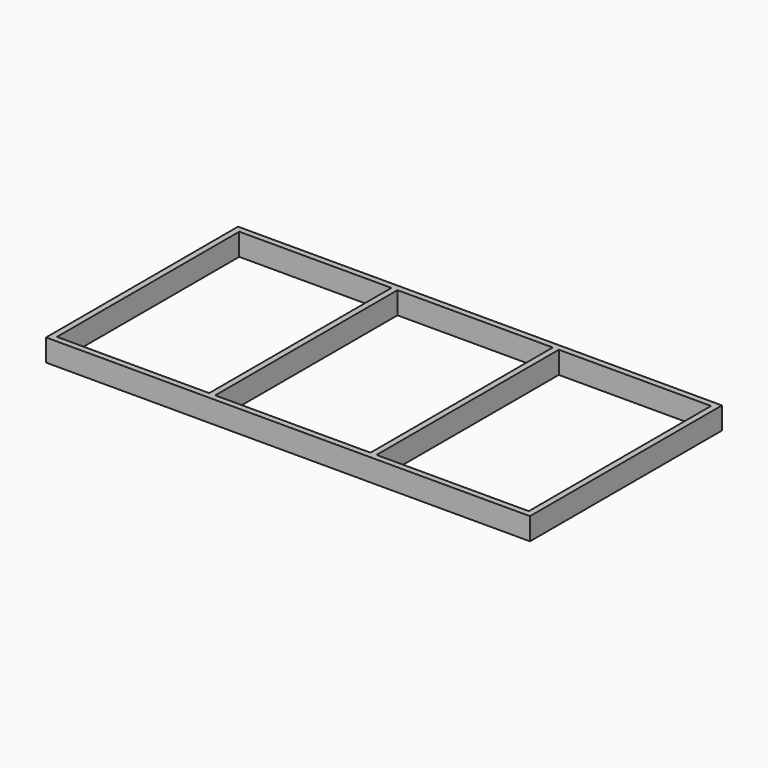
from build123d import *

# Parameters (mm, degrees)
F0_W     = 38.1
F0_H     = 1435.1
F1_DEPTH = 69.85


with BuildPart() as f1:
    # F0 (on Top) → F1 (new body, symmetric)
    with BuildSketch(Plane.XY):
        Polygon((1524, 717.55), (1524, 755.65), (1485.9, 755.65), (-1485.9, 755.65), (-1524, 755.65), (-1524, 717.55), (-1485.9, 717.55), (-527.05, 717.55), (-488.95, 717.55), (488.95, 717.55), (527.05, 717.55), (1485.9, 717.55), align=None)
        with Locations((1504.95, 0)):
            Rectangle(F0_W, F0_H)
        Polygon((1524, -755.65), (1524, -717.55), (1485.9, -717.55), (527.05, -717.55), (488.95, -717.55), (-488.95, -717.55), (-527.05, -717.55), (-1485.9, -717.55), (-1524, -717.55), (-1524, -755.65), (-1485.9, -755.65), (1485.9, -755.65), align=None)
        with Locations((-1504.95, 0)):
            Rectangle(F0_W, F0_H)
        with Locations((-508, 0)):
            Rectangle(F0_W, F0_H)
        with Locations((508, 0)):
            Rectangle(F0_W, F0_H)
    extrude(amount=F1_DEPTH, both=True)


solid = f1.part
